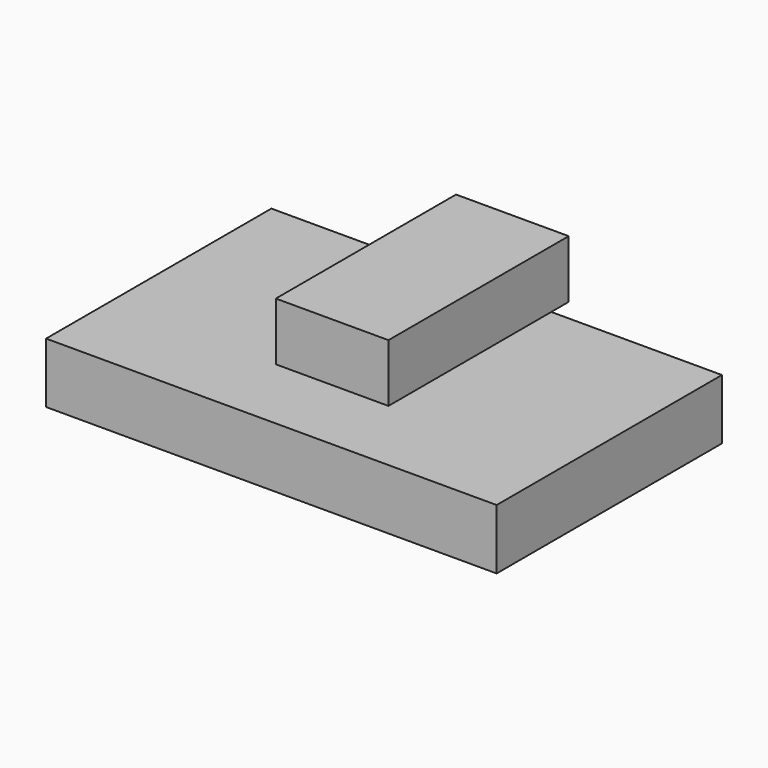
from build123d import *

# Parameters (mm, degrees)
F0_W      = 11.9634
F0_H      = 9.2964
F1_DEPTH  = 1.0795
F2_W      = 11.6078
F2_H      = 8.8646
F3_DEPTH  = 0.4826
F4_W      = 101.6
F4_H      = 63.5
F5_DEPTH  = 12.7
F6_W      = 101.6
F6_H      = 63.5
F7_DEPTH  = 0.889
F8_W      = 25.4
F8_H      = 50.8
F8_W_2    = 11.6078
F8_H_2    = 8.8646
F9_DEPTH  = 12.7
F10_W     = 25.4
F10_H     = 50.8
F11_DEPTH = 0.3556


with BuildPart() as f1:
    # F0 (on Top) → F1 (new body)
    with BuildSketch(Plane.XY):
        Rectangle(F0_W, F0_H)
    extrude(amount=F1_DEPTH)


with BuildPart() as f3:
    # F2 (on face) → F3 (new body)
    with BuildSketch(Plane.XY.offset(1.0795)):
        Rectangle(F2_W, F2_H)
    extrude(amount=F3_DEPTH)


with BuildPart() as f5:
    # F4 (on Top) → F5 (new body)
    with BuildSketch(Plane.XY):
        Rectangle(F4_W, F4_H)
    extrude(amount=-F5_DEPTH)

    # F6 (on face) → F7 (join)
    with BuildSketch(Plane.XY):
        Rectangle(F6_W, F6_H)
        with BuildLine():
            ThreePointArc((6.0325, -3.7234568643), (6.200056771, -4.2112284321), (6.0325, -4.699))
            ThreePointArc((6.0325, -4.699), (5.406306771, -5.0049784321), (4.780113542, -4.699))
            Line((4.780113542, -4.699), (-4.780113542, -4.699))
            ThreePointArc((-4.780113542, -4.699), (-5.406306771, -5.0049784321), (-6.0325, -4.699))
            ThreePointArc((-6.0325, -4.699), (-6.200056771, -4.2112284321), (-6.0325, -3.7234568643))
            Line((-6.0325, -3.7234568643), (-6.0325, 3.7234568643))
            ThreePointArc((-6.0325, 3.7234568643), (-6.200056771, 4.2112284321), (-6.0325, 4.699))
            ThreePointArc((-6.0325, 4.699), (-5.406306771, 5.0049784321), (-4.780113542, 4.699))
            Line((-4.780113542, 4.699), (4.780113542, 4.699))
            ThreePointArc((4.780113542, 4.699), (5.406306771, 5.0049784321), (6.0325, 4.699))
            ThreePointArc((6.0325, 4.699), (6.200056771, 4.2112284321), (6.0325, 3.7234568643))
            Line((6.0325, 3.7234568643), (6.0325, -3.7234568643))
        make_face(mode=Mode.SUBTRACT)
    extrude(amount=F7_DEPTH)


with BuildPart() as f9:
    # F8 (on face) → F9 (new body)
    with BuildSketch(Plane.XY.offset(1.5621)):
        with Locations((0, 10.7823)):
            Rectangle(F8_W, F8_H)
        Rectangle(F8_W_2, F8_H_2, mode=Mode.SUBTRACT)
        Rectangle(F8_W_2, F8_H_2)
    extrude(amount=F9_DEPTH)

    # F10 (on face) → F11 (join)
    with BuildSketch(Plane(origin=(0, 0, 1.5621), x_dir=(1, 0, 0), z_dir=(0, 0, -1))):
        with Locations((0, -10.7823)):
            Rectangle(F10_W, F10_H)
        with BuildLine():
            ThreePointArc((5.8547, -3.5179612804), (6.018239023, -4.0005306402), (5.8547, -4.4831))
            ThreePointArc((5.8547, -4.4831), (5.224489023, -4.7942806402), (4.5942780461, -4.4831))
            Line((4.5942780461, -4.4831), (-4.5942780461, -4.4831))
            ThreePointArc((-4.5942780461, -4.4831), (-5.224489023, -4.7942806402), (-5.8547, -4.4831))
            ThreePointArc((-5.8547, -4.4831), (-6.018239023, -4.0005306402), (-5.8547, -3.5179612804))
            Line((-5.8547, -3.5179612804), (-5.8547, 3.5179612804))
            ThreePointArc((-5.8547, 3.5179612804), (-6.018239023, 4.0005306402), (-5.8547, 4.4831))
            ThreePointArc((-5.8547, 4.4831), (-5.224489023, 4.7942806402), (-4.5942780461, 4.4831))
            Line((-4.5942780461, 4.4831), (4.5942780461, 4.4831))
            ThreePointArc((4.5942780461, 4.4831), (5.224489023, 4.7942806402), (5.8547, 4.4831))
            ThreePointArc((5.8547, 4.4831), (6.018239023, 4.0005306402), (5.8547, 3.5179612804))
            Line((5.8547, 3.5179612804), (5.8547, -3.5179612804))
        make_face(mode=Mode.SUBTRACT)
    extrude(amount=F11_DEPTH)


solid = Compound([f1.part, f3.part, f5.part, f9.part])
